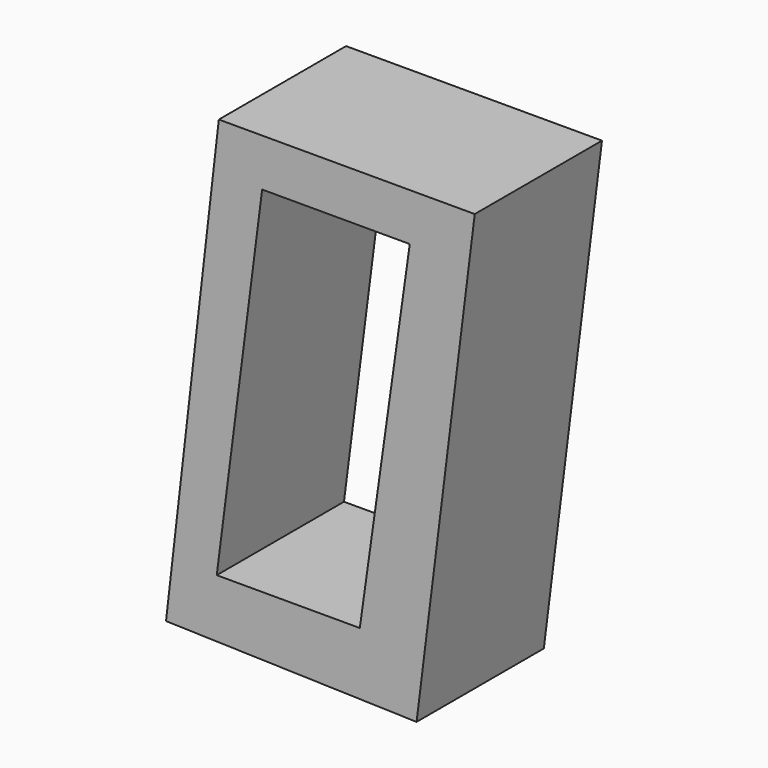
from build123d import *

# Parameters (mm, degrees)
F1_DEPTH = 76.2
F3_DEPTH = 25.4
F4_DEPTH = 25.4
F5_DEPTH = 38.1
F6_DEPTH = 38.1
F7_DEPTH = 38.1
F8_DEPTH = 38.1
F9_DEPTH = 38.1


with BuildPart() as f1:
    # F0 (on Front) → F1 (new body)
    with BuildSketch(Plane.XZ):
        Polygon((22.4569932461, 74.4162100717), (-18.4116067539, 74.4162100717), (-26.8437221389, 1.1637246492), (13.1697589532, 0), align=None)
    extrude(amount=F1_DEPTH)

    # F2 (on Front) + F1_face (on face) → F3 (cut)
    with BuildSketch(Plane.XZ):
        Polygon((12.081772089, 66.8269023299), (-11.4912800491, 66.8269023299), (-18.7445282936, 10.2515770122), (4.1031986475, 10.2515770122), align=None)
    with BuildSketch(Plane(origin=(-2.3405186652, -76.2, 37.6069334432), x_dir=(1, 0, 0), z_dir=(0, -1, 0))):
        Polygon((-24.5032034737, -36.443208794), (15.5102776183, -37.6069334432), (24.7975119113, 36.8092766285), (-16.0710880887, 36.8092766285), align=None)
    extrude(amount=-F3_DEPTH, mode=Mode.SUBTRACT)

    # F2 (on Front) + F3_face (on face) → F4 (cut)
    with BuildSketch(Plane.XZ):
        Polygon((12.081772089, 66.8269023299), (-11.4912800491, 66.8269023299), (-18.7445282936, 10.2515770122), (4.1031986475, 10.2515770122), align=None)
    with BuildSketch(Plane(origin=(-2.3405186652, -50.8, 37.6069334432), x_dir=(1, 0, 0), z_dir=(0, -1, 0))):
        Polygon((-16.0710880887, 36.8092766285), (-24.5032034737, -36.443208794), (15.5102776183, -37.6069334432), (24.7975119113, 36.8092766285), align=None)
    extrude(amount=-F4_DEPTH, mode=Mode.SUBTRACT)

    # F2 (on Front) → F5 (cut, symmetric)
    with BuildSketch(Plane.XZ):
        Polygon((12.081772089, 66.8269023299), (-11.4912800491, 66.8269023299), (-18.7445282936, 10.2515770122), (4.1031986475, 10.2515770122), align=None)
    extrude(amount=F5_DEPTH, both=True, mode=Mode.SUBTRACT)

    # F2 (on Front) → F6 (join, symmetric)
    with BuildSketch(Plane.XZ):
        Polygon((12.081772089, 66.8269023299), (-11.4912800491, 66.8269023299), (-18.7445282936, 10.2515770122), (4.1031986475, 10.2515770122), align=None)
    extrude(amount=F6_DEPTH, both=True)

    # F7 (cut, symmetric): a face of the model
    f7_faces = [f1.faces().sort_by_distance(p)[0] for p in [
        (-3.4928762861, -38.1, 38.6865713538),
    ]]
    extrude(f7_faces, amount=F7_DEPTH, both=True, mode=Mode.SUBTRACT)

    # F8 (cut, symmetric): a face of the model
    f8_faces = [f1.faces().sort_by_distance(p)[0] for p in [
        (-3.4928762861, 38.1, 38.6865713538),
    ]]
    extrude(f8_faces, amount=F8_DEPTH, both=True, mode=Mode.SUBTRACT)

    # F2 (on Front) → F9 (cut, symmetric)
    with BuildSketch(Plane.XZ):
        Polygon((12.081772089, 66.8269023299), (-11.4912800491, 66.8269023299), (-18.7445282936, 10.2515770122), (4.1031986475, 10.2515770122), align=None)
    extrude(amount=F9_DEPTH, both=True, mode=Mode.SUBTRACT)


solid = f1.part
